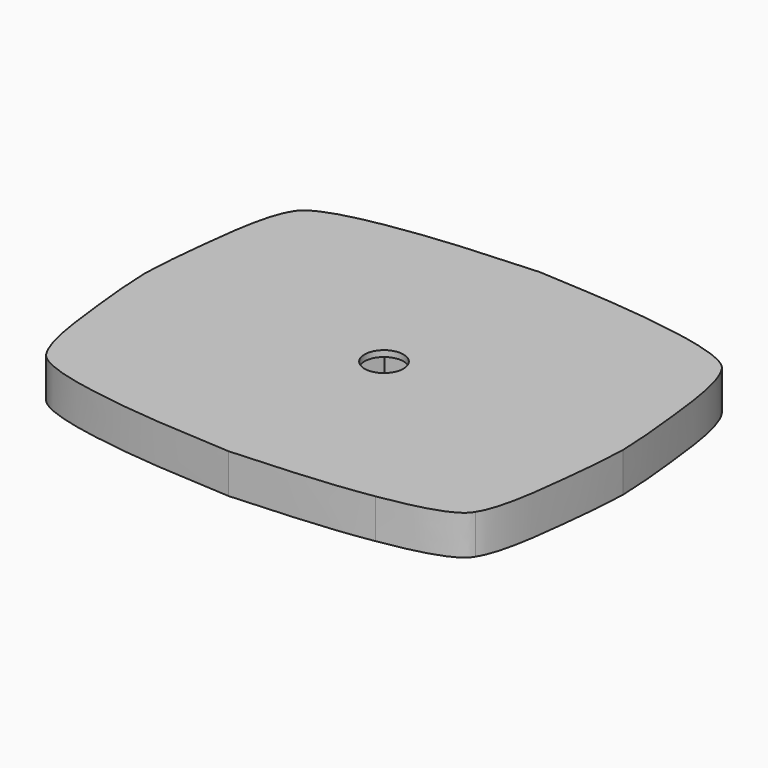
from build123d import *

# Parameters (mm, degrees)
F0_R     = 3.2
F1_DEPTH = 6.5
F3_DEPTH = 5.5


with BuildPart() as f1:
    # F0 (on Top) → F1 (new body)
    with BuildSketch(Plane.XY):
        with BuildLine():
            add(Edge.make_bspline(
                [(39.3999332212, 0), (39.2324304628, 4.2829147513), (38.7872771507, 8.9265367766), (37.1625908582, 22.6121680541), (35.3297105847, 25.3482333917)],
                knots=[0, 0, 0, 0, 0.4670120009, 0.8593894213, 0.8593894213, 0.8593894213, 0.8593894213], degree=3))
            add(Edge.make_bspline(
                [(28.7875, 28.7714468365), (31.9545471321, 27.9562968429), (34.5767290156, 26.8654108521), (35.3297105847, 25.3482333917)],
                knots=[0.7023325424, 0.7023325424, 0.7023325424, 0.7023325424, 0.9359109815, 0.9359109815, 0.9359109815, 0.9359109815], degree=3))
            add(Edge.make_bspline(
                [(0, 32), (8.225, 31.5), (16.3020276918, 31.2138742229), (26.8349069443, 29.2740147335), (28.7875, 28.7714468365)],
                knots=[0, 0, 0, 0, 0.5583234326, 0.7023325424, 0.7023325424, 0.7023325424, 0.7023325424], degree=3))
            add(Edge.make_bspline(
                [(0, 32), (-8.225, 31.5), (-18.9882474055, 31.1187158636), (-34.1124900821, 27.8008027329), (-35.3297105847, 25.3482333917)],
                knots=[0, 0, 0, 0, 0.5583234326, 0.9359109815, 0.9359109815, 0.9359109815, 0.9359109815], degree=3))
            add(Edge.make_bspline(
                [(-39.3999332212, 0), (-39.2324304628, 4.2829147513), (-38.7872771507, 8.9265367766), (-37.1625908582, 22.6121680541), (-35.3297105847, 25.3482333917)],
                knots=[0, 0, 0, 0, 0.4670120009, 0.8593894213, 0.8593894213, 0.8593894213, 0.8593894213], degree=3))
            add(Edge.make_bspline(
                [(-39.3999332212, 0), (-39.2324304628, -4.2829147513), (-38.7872771507, -8.9265367766), (-37.1625908582, -22.6121680541), (-35.3297105847, -25.3482333917)],
                knots=[0, 0, 0, 0, 0.4670120009, 0.8593894213, 0.8593894213, 0.8593894213, 0.8593894213], degree=3))
            add(Edge.make_bspline(
                [(0, -32), (-8.225, -31.5), (-18.9882474055, -31.1187158636), (-34.1124900821, -27.8008027329), (-35.3297105847, -25.3482333917)],
                knots=[0, 0, 0, 0, 0.5583234326, 0.9359109815, 0.9359109815, 0.9359109815, 0.9359109815], degree=3))
            add(Edge.make_bspline(
                [(0, -32), (8.225, -31.5), (14.645881212, -31.2725426114), (22.61875, -30)],
                knots=[0, 0, 0, 0, 0.5583234326, 0.5583234326, 0.5583234326, 0.5583234326], degree=3))
            add(Edge.make_bspline(
                [(22.6187500712, -29.9999999876), (27.9903507, -29.0675234892), (34.0715600658, -27.7859713129), (35.317323608, -25.3666461376)],
                knots=[0.5585918573, 0.5585918573, 0.5585918573, 0.5585918573, 0.9347189863, 0.9347189863, 0.9347189863, 0.9347189863], degree=3))
            add(Edge.make_bspline(
                [(35.317323608, -25.3666461376), (35.5335396174, -24.9467455569), (35.6040953996, -24.4925713477), (35.5, -24)],
                knots=[0.9347189863, 0.9347189863, 0.9347189863, 0.9347189863, 1, 1, 1, 1], degree=3))
            add(Edge.make_bspline(
                [(35.3297105847, -25.3482333917), (35.5363129143, -24.9319517578), (35.6021946751, -24.4835772671), (35.5, -24)],
                knots=[0.9359109815, 0.9359109815, 0.9359109815, 0.9359109815, 1, 1, 1, 1], degree=3))
            add(Edge.make_bspline(
                [(39.3999332212, 0), (39.2324304628, -4.2829147513), (38.7872771507, -8.9265367766), (37.1625908582, -22.6121680541), (35.3297105847, -25.3482333917)],
                knots=[0, 0, 0, 0, 0.4670120009, 0.8593894213, 0.8593894213, 0.8593894213, 0.8593894213], degree=3))
        make_face()
        Circle(F0_R, mode=Mode.SUBTRACT)
        with BuildLine():
            add(Edge.make_bspline(
                [(35.3297105847, 25.3482333917), (35.350547333, 25.3062495686), (35.3699527275, 25.2639393096), (35.3878987049, 25.2212994245)],
                knots=[0.9359109815, 0.9359109815, 0.9359109815, 0.9359109815, 0.9423746393, 0.9423746393, 0.9423746393, 0.9423746393], degree=3))
            ThreePointArc((35.3878987049, 25.2212994245), (35.3338677214, 25.3257074205), (35.2754576154, 25.4277301451))
            add(Edge.make_bspline(
                [(35.3297105847, 25.3482333917), (35.311731512, 25.3750719791), (35.2936474549, 25.401572595), (35.2754576154, 25.4277301451)],
                knots=[0.8593894213, 0.8593894213, 0.8593894213, 0.8593894213, 0.8632383264, 0.8632383264, 0.8632383264, 0.8632383264], degree=3))
        make_face(mode=Mode.SUBTRACT)
        with BuildLine():
            ThreePointArc((34.6207032544, 26.1726464416), (34.9816720539, 25.8297141061), (35.2754576154, 25.4277301451))
            add(Edge.make_bspline(
                [(35.2754576154, 25.4277301451), (35.0709547328, 25.7218115973), (34.8530811542, 25.9725301252), (34.6207032544, 26.1726464416)],
                knots=[0.8632383264, 0.8632383264, 0.8632383264, 0.8632383264, 0.9065104058, 0.9065104058, 0.9065104058, 0.9065104058], degree=3))
        make_face(mode=Mode.SUBTRACT)
        with BuildLine():
            ThreePointArc((35.2754576154, 25.4277301451), (35.3338677214, 25.3257074205), (35.3878987049, 25.2212994245))
            add(Edge.make_bspline(
                [(35.3297105847, 25.3482333917), (35.350547333, 25.3062495686), (35.3699527275, 25.2639393096), (35.3878987049, 25.2212994245)],
                knots=[0.9359109815, 0.9359109815, 0.9359109815, 0.9359109815, 0.9423746393, 0.9423746393, 0.9423746393, 0.9423746393], degree=3))
            add(Edge.make_bspline(
                [(35.3297105847, 25.3482333917), (35.311731512, 25.3750719791), (35.2936474549, 25.401572595), (35.2754576154, 25.4277301451)],
                knots=[0.8593894213, 0.8593894213, 0.8593894213, 0.8593894213, 0.8632383264, 0.8632383264, 0.8632383264, 0.8632383264], degree=3))
        make_face()
        with BuildLine():
            add(Edge.make_bspline(
                [(22.6187500713, -29.9999999886), (28.0107071306, -29.1393944369), (34.1124900875, -27.8008027221), (35.3297105847, -25.3482333917)],
                knots=[0.5583234343, 0.5583234343, 0.5583234343, 0.5583234343, 0.9359109815, 0.9359109815, 0.9359109815, 0.9359109815], degree=3))
            add(Edge.make_bspline(
                [(35.3297105847, -25.3482333917), (35.3255871179, -25.3543887717), (35.3214581289, -25.3605263741), (35.317323608, -25.3666461376)],
                knots=[0.8593894213, 0.8593894213, 0.8593894213, 0.8593894213, 0.8602721605, 0.8602721605, 0.8602721605, 0.8602721605], degree=3))
            add(Edge.make_bspline(
                [(22.6187500712, -29.9999999876), (27.9903507, -29.0675234892), (34.0715600658, -27.7859713129), (35.317323608, -25.3666461376)],
                knots=[0.5585918573, 0.5585918573, 0.5585918573, 0.5585918573, 0.9347189863, 0.9347189863, 0.9347189863, 0.9347189863], degree=3))
        make_face()
        with BuildLine():
            add(Edge.make_bspline(
                [(35.3297105847, -25.3482333917), (35.3255871179, -25.3543887717), (35.3214581289, -25.3605263741), (35.317323608, -25.3666461376)],
                knots=[0.8593894213, 0.8593894213, 0.8593894213, 0.8593894213, 0.8602721605, 0.8602721605, 0.8602721605, 0.8602721605], degree=3))
            add(Edge.make_bspline(
                [(35.3297105847, -25.3482333917), (35.5363129143, -24.9319517578), (35.6021946751, -24.4835772671), (35.5, -24)],
                knots=[0.9359109815, 0.9359109815, 0.9359109815, 0.9359109815, 1, 1, 1, 1], degree=3))
            add(Edge.make_bspline(
                [(35.317323608, -25.3666461376), (35.5335396174, -24.9467455569), (35.6040953996, -24.4925713477), (35.5, -24)],
                knots=[0.9347189863, 0.9347189863, 0.9347189863, 0.9347189863, 1, 1, 1, 1], degree=3))
        make_face()
    extrude(amount=F1_DEPTH)

    # F2 (on Top) → F3 (cut)
    with BuildSketch(Plane.XY):
        Polygon((-2.5493866035, -6.3223395923), (4.2006133965, -5.3690033588), (6.75, 0.9533362335), (2.5493866035, 6.3223395923), (-4.2006133965, 5.3690033588), (-6.75, -0.9533362335), align=None)
    extrude(amount=F3_DEPTH, mode=Mode.SUBTRACT)


solid = f1.part
